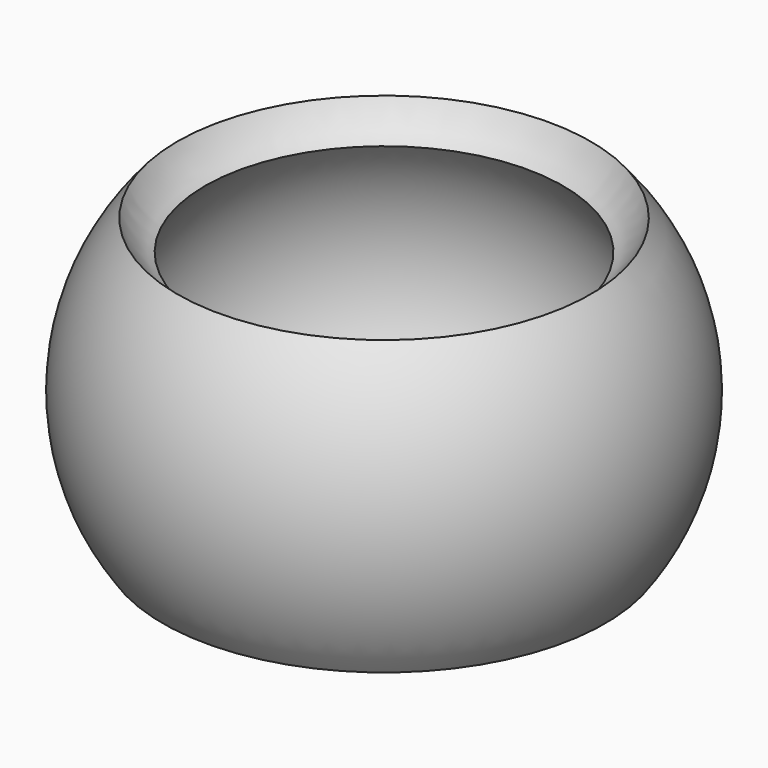
from build123d import *


with BuildPart() as part:
    # Sketch → Revolution (revolve)
    with BuildSketch(Plane.XZ):
        with BuildLine():
            Line((0, 0), (-70, 0))
            ThreePointArc((-65.440932, 90.241554), (-83.428627, 45.914365), (-70, 0))
            ThreePointArc((-65.440932, 90.241554), (-61.870166, 84.735199), (-56.704052, 80.68778))
            ThreePointArc((-56.704052, 80.68778), (-72.172434, 46.555594), (-63.928316, 10))
            Line((0, 10), (-63.928316, 10))
            Line((0, 0), (0, 10))
        make_face()
    revolve(axis=Axis((0, 0, 0), (0, 0, 1)))


solid = part.part
